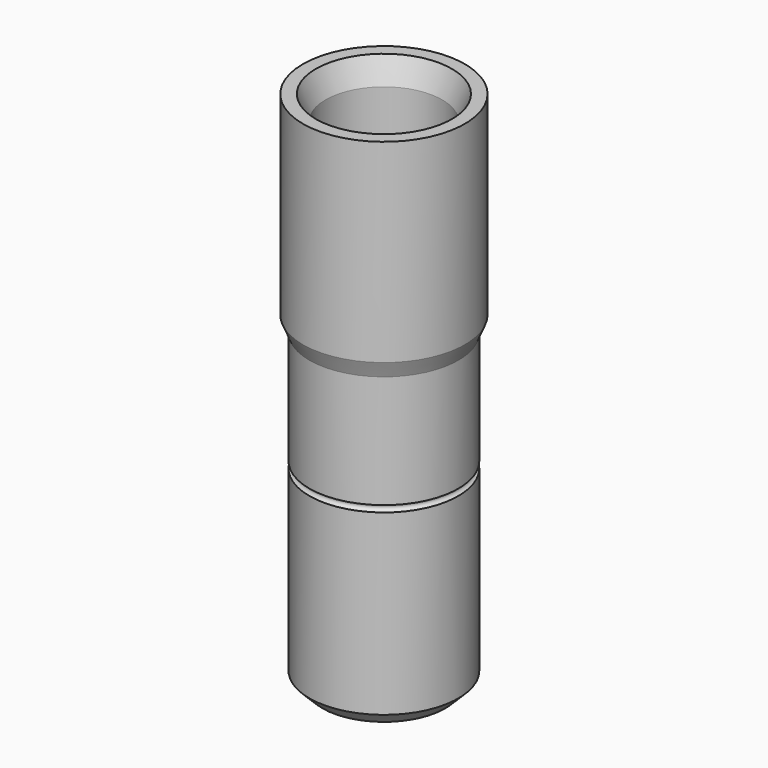
from build123d import *


with BuildPart() as f1:
    # F0 (on Front) → F1 (revolve)
    with BuildSketch(Plane.XZ):
        with BuildLine():
            Line((-0.9, 7.668737), (-1.05, 8.04))
            Line((-1.05, 8.04), (-1.25, 8.04))
            Line((-1.25, 8.04), (-1.25, 5.04))
            Line((-1.25, 5.04), (-1.15, 4.792491))
            Line((-1.15, 4.792491), (-1.15, 3.05))
            ThreePointArc((-1.15, 3.05), (-1.1, 3), (-1.15, 2.95))
            Line((-1.15, 2.95), (-1.15, 0.2))
            Line((-1.15, 0.2), (-0.95, 0))
            Line((-0.95, 0), (-0.675, 0))
            Line((-0.675, 0), (-0.675, 1.030096))
            Line((-0.675, 1.030096), (-0.9, 1.16))
            Line((-0.9, 1.16), (-0.9, 7.668737))
        make_face()
    revolve(axis=Axis((0, 0, 2.568733), (0, 0, -1)))


solid = f1.part
